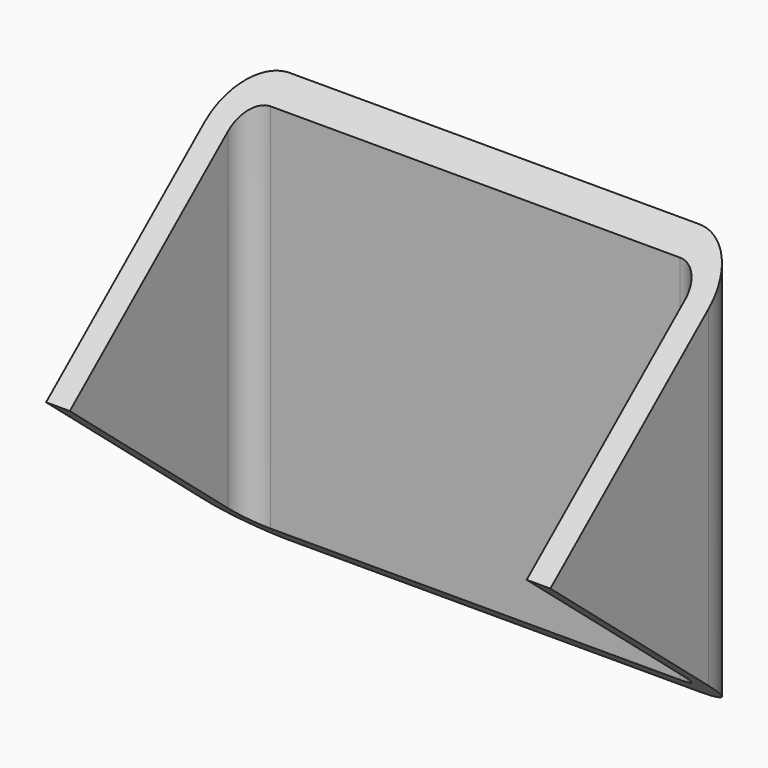
from build123d import *

# Parameters (mm, degrees)
F1_DEPTH = 88.9
F3_DEPTH = 127


with BuildPart() as f1:
    # F0 (on Top) → F1 (new body)
    with BuildSketch(Plane.XY):
        with BuildLine():
            Line((-25.225942, 49.235028), (-25.225942, 9.382428))
            Line((-25.225942, 9.382428), (-20.450742, 9.382428))
            Line((-20.450742, 9.382428), (-20.450742, 49.235028))
            ThreePointArc((-20.450742, 49.235028), (-19.052118, 52.611604), (-15.675542, 54.010228))
            Line((-15.675542, 54.010228), (66.823658, 54.010228))
            ThreePointArc((66.823658, 54.010228), (70.200235, 52.611604), (71.598858, 49.235028))
            Line((71.598858, 49.235028), (71.598858, 9.382428))
            Line((71.598858, 9.382428), (76.374058, 9.382428))
            Line((76.374058, 9.382428), (76.374058, 49.235028))
            ThreePointArc((76.374058, 49.235028), (73.576811, 55.988181), (66.823658, 58.785428))
            Line((66.823658, 58.785428), (-15.675542, 58.785428))
            ThreePointArc((-15.675542, 58.785428), (-22.428694, 55.988181), (-25.225942, 49.235028))
        make_face()
    extrude(amount=F1_DEPTH)

    # F2 (on face) → F3 (cut)
    with BuildSketch(Plane(origin=(-25.225942, 0, 0), x_dir=(0, -1, 0), z_dir=(-1, 0, 0))):
        Polygon((-78.115521, 102.123913), (-9.382428, 44.45), (-78.115521, -13.223913), (1.991454, -13.223913), (1.991454, 102.123913), align=None)
    extrude(amount=-F3_DEPTH, mode=Mode.SUBTRACT)


solid = f1.part
